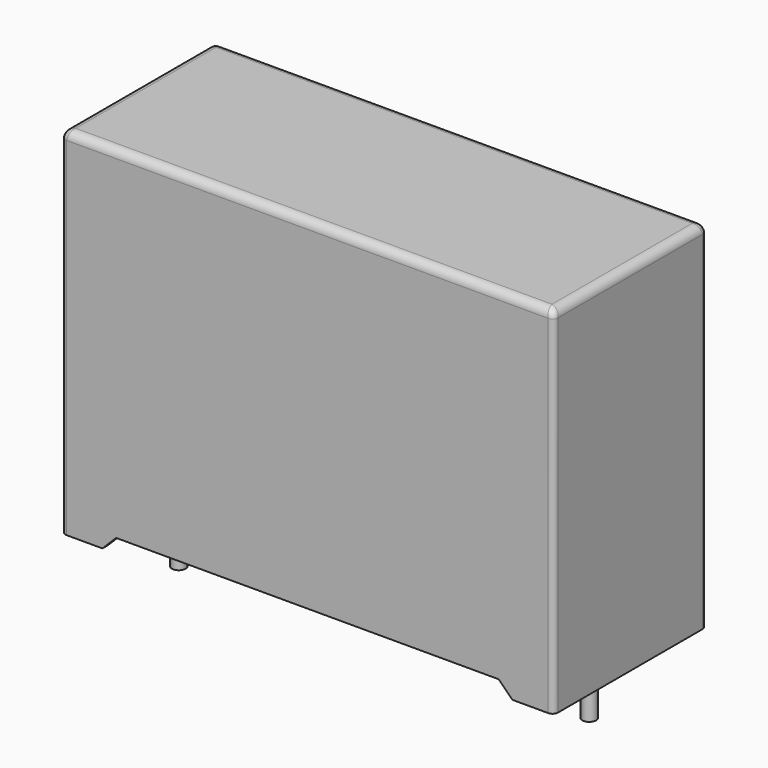
from build123d import *

# Parameters (mm, degrees)
PAD_DEPTH    = 3.5
FILLET_R     = 0.2
FILLET001_R  = 0.3
CHAMFER_SIZE = 0.49
SKETCH001_W  = 17.5
SKETCH001_H  = 6.5
POCKET_DEPTH = 0.6
SKETCH003_R  = 0.25
PAD001_DEPTH = 3
SKETCH004_R  = 0.25
PAD002_DEPTH = 3


with BuildPart() as body:
    # Sketch → Pad (new body, symmetric)
    with BuildSketch(Plane.XZ):
        Polygon((-9, 0), (-7, 0), (-7, 0.5), (7, 0.5), (7, 0), (9, 0), (9, 13), (-9, 13), align=None)
    extrude(amount=PAD_DEPTH, both=True)

    # Fillet
    fillet_edges = [body.edges().sort_by_distance(p)[0] for p in [
        (-9, -3.5, 6.5),
        (9, -3.5, 6.5),
        (9, 3.5, 6.5),
        (-9, 3.5, 6.5),
    ]]
    fillet(fillet_edges, radius=FILLET_R)

    # Fillet001
    fillet001_edges = [body.edges().sort_by_distance(p)[0] for p in [
        (9, 0, 13),
        (8.941421, 3.441421, 13),
        (8.941421, -3.441421, 13),
        (0, 3.5, 13),
        (0, -3.5, 13),
        (-8.941421, 3.441421, 13),
        (-8.941421, -3.441421, 13),
        (-9, 0, 13),
    ]]
    fillet(fillet001_edges, radius=FILLET001_R)

    # Chamfer
    chamfer_edges = [body.edges().sort_by_distance(p)[0] for p in [
        (7, 0, 0),
        (-7, 0, 0),
    ]]
    chamfer(chamfer_edges, length=CHAMFER_SIZE)

    # Sketch001 (on Face1 of Chamfer) → Pocket (cut)
    with BuildSketch(Plane(origin=(0, 0, 0), x_dir=(1, 0, 0), z_dir=(0, 0, -1))):
        Rectangle(SKETCH001_W, SKETCH001_H)
    extrude(amount=-POCKET_DEPTH, mode=Mode.SUBTRACT)


with BuildPart() as body001:
    # Sketch003 → Pad001 (new body)
    with BuildSketch(Plane(origin=(0, 0, 0), x_dir=(-1, 0, 0), z_dir=(0, 0, -1))):
        with Locations((-7.5, 0)):
            Circle(SKETCH003_R)
    extrude(amount=PAD001_DEPTH)


with BuildPart() as body001_1:
    # Body001 placement: moved
    add(body001.part.moved(Location((0, 0, 1))))


with BuildPart() as body002:
    # Sketch004 → Pad002 (new body)
    with BuildSketch(Plane(origin=(0, 0, 0), x_dir=(-1, 0, 0), z_dir=(0, 0, -1))):
        with Locations((7.5, 0)):
            Circle(SKETCH004_R)
    extrude(amount=PAD002_DEPTH)


with BuildPart() as body002_1:
    # Body002 placement: moved
    add(body002.part.moved(Location((0, 0, 1))))


solid = Compound([body.part, body001_1.part, body002_1.part])
